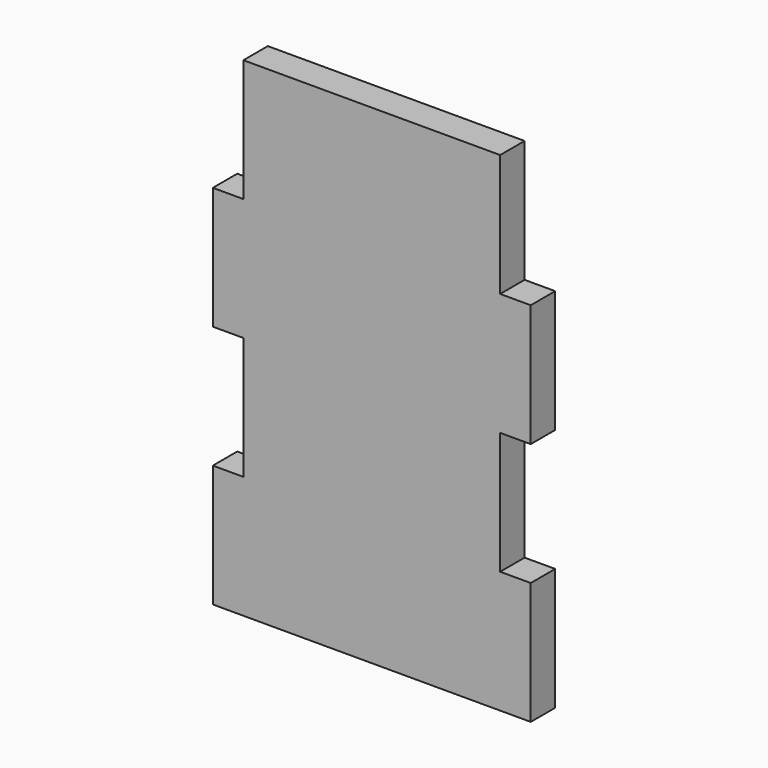
from build123d import *

# Parameters (mm, degrees)
F0_W     = 6.35
F0_H     = 25.4
F1_DEPTH = 6.35


with BuildPart() as f1:
    # F0 (on Front) → F1 (new body)
    with BuildSketch(Plane.XZ):
        with Locations((-29.845, 12.7)):
            Rectangle(F0_W, F0_H)
        Polygon((-26.67, -50.8), (26.67, -50.8), (26.67, -25.4), (26.67, 0), (26.67, 25.4), (26.67, 50.8), (-26.67, 50.8), (-26.67, 25.4), (-26.67, 0), (-26.67, -25.4), align=None)
        with Locations((29.845, 12.7)):
            Rectangle(F0_W, F0_H)
        with Locations((29.845, -38.1)):
            Rectangle(F0_W, F0_H)
        with Locations((-29.845, -38.1)):
            Rectangle(F0_W, F0_H)
    extrude(amount=F1_DEPTH)


solid = f1.part
